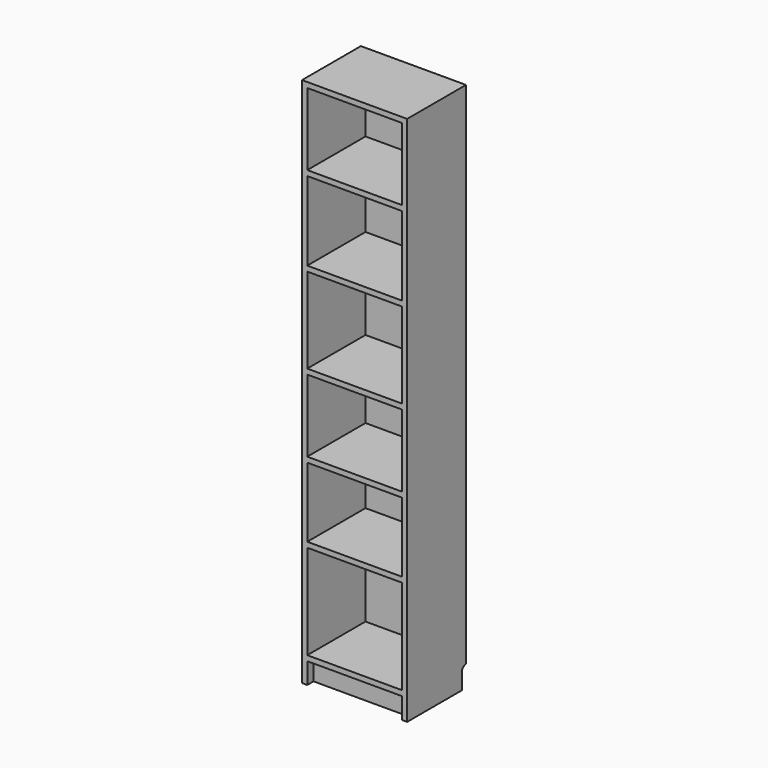
from build123d import *

# Parameters (mm, degrees)
F0_W     = 400
F0_H     = 280
F1_DEPTH = 2020
F3_W     = 360
F3_H     = 275
F3_H_2   = 300
F3_H_3   = 325
F3_H_4   = 265
F3_H_5   = 360
F4_DEPTH = 277
F6_DEPTH = 400.001
F7_W     = 360
F7_H     = 80
F8_DEPTH = 30


with BuildPart() as f1:
    # F0 (on Top) → F1 (new body)
    with BuildSketch(Plane.XY):
        with Locations((0, -140)):
            Rectangle(F0_W, F0_H)
    extrude(amount=F1_DEPTH)

    # F3 (on face) → F4 (cut, through all)
    with BuildSketch(Plane.XZ.offset(280)):
        with Locations((0, 1862.5)):
            Rectangle(F3_W, F3_H)
        with Locations((0, 1555)):
            Rectangle(F3_W, F3_H_2)
        with Locations((0, 1222.5)):
            Rectangle(F3_W, F3_H_3)
        with Locations((0, 902.5)):
            Rectangle(F3_W, F3_H)
        with Locations((0, 612.5)):
            Rectangle(F3_W, F3_H_4)
        with Locations((0, 280)):
            Rectangle(F3_W, F3_H_5)
    extrude(amount=-F4_DEPTH, mode=Mode.SUBTRACT)

    # F5 (on face) → F6 (cut, through all)
    with BuildSketch(Plane(origin=(-200, 0, 0), x_dir=(0, -1, 0), z_dir=(-1, 0, 0))):
        with BuildLine():
            Line((0, 80), (0, 0))
            Line((0, 0), (20, 0))
            Line((20, 0), (20, 60))
            ThreePointArc((20, 60), (14.142136, 74.142136), (0, 80))
        make_face()
    extrude(amount=-F6_DEPTH, mode=Mode.SUBTRACT)

    # F7 (on face) → F8 (cut)
    with BuildSketch(Plane.XZ.offset(280)):
        with Locations((0, 40)):
            Rectangle(F7_W, F7_H)
    extrude(amount=-F8_DEPTH, mode=Mode.SUBTRACT)


solid = f1.part
